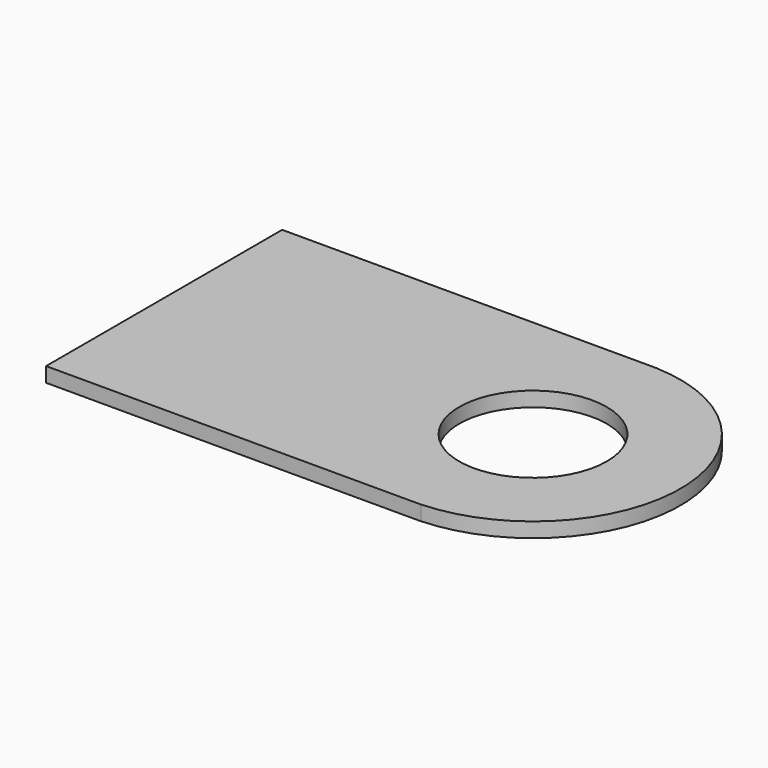
from build123d import *

# Parameters (mm, degrees)
CYLINDER032_R     = 0.5
CYLINDER032_DEPTH = 0.1
BOX013_W          = 2.54
BOX013_H          = 2
BOX013_DEPTH      = 0.1
CYLINDER031_R     = 0.5
CYLINDER031_DEPTH = 0.1
CYLINDER030_R     = 1
CYLINDER030_DEPTH = 0.1


with BuildPart() as cylinder032:
    # Cylinder032 → Cylinder032 (new body)
    with BuildSketch(Plane.XY.offset(1)):
        Circle(CYLINDER032_R)
    extrude(amount=CYLINDER032_DEPTH)


with BuildPart() as cut022:
    # Box013 → Box013 (new body)
    with BuildSketch(Plane(origin=(-2.5, -1, 1), x_dir=(1, 0, 0), z_dir=(0, 0, 1))):
        with Locations((1.27, 1)):
            Rectangle(BOX013_W, BOX013_H)
    extrude(amount=BOX013_DEPTH)

    # Cut022: cut Cylinder032
    add(cylinder032.part, mode=Mode.SUBTRACT)


with BuildPart() as cylinder031:
    # Cylinder031 → Cylinder031 (new body)
    with BuildSketch(Plane.XY.offset(1)):
        Circle(CYLINDER031_R)
    extrude(amount=CYLINDER031_DEPTH)


with BuildPart() as fusion010:
    # Cylinder030 → Cylinder030 (new body)
    with BuildSketch(Plane.XY.offset(1)):
        Circle(CYLINDER030_R)
    extrude(amount=CYLINDER030_DEPTH)

    # Cut021: cut Cylinder031
    add(cylinder031.part, mode=Mode.SUBTRACT)

    # Fusion010: union Cut022
    add(cut022.part)


with BuildPart() as fusion010_1:
    # Fusion010 placement: moved
    add(fusion010.part.moved(Location((0, -25.4, 5.5))))


solid = fusion010_1.part
